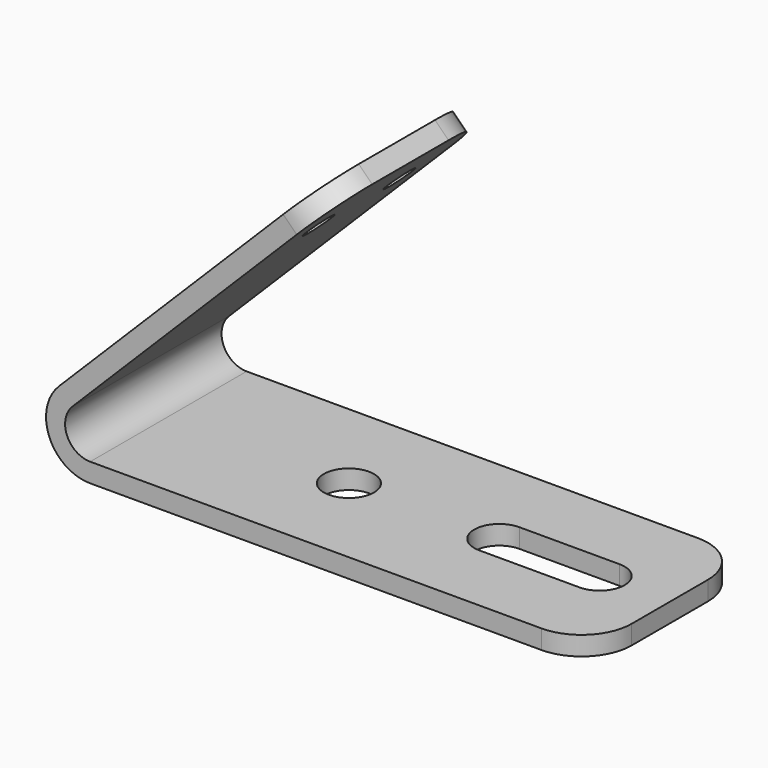
from build123d import *

# Parameters (mm, degrees)
F1_DEPTH = 247.65
F2_R     = 38.1
F3_DEPTH = 50.8
F4_R     = 63.5
F5_DEPTH = 50.8
F6_R     = 127


with BuildPart() as f1:
    # F0 (on Front) → F1 (new body, symmetric)
    with BuildSketch(Plane.XZ):
        with BuildLine():
            Line((578.707208, 736.759715), (-79.026254, 79.026254))
            ThreePointArc((-79.026254, 79.026254), (-103.252777, -42.7687), (0, -111.76))
            Line((0, -111.76), (1270, -111.76))
            Line((1270, -111.76), (1270, -63.5))
            Line((1270, -63.5), (0, -63.5))
            ThreePointArc((0, -63.5), (-58.66635, -24.300398), (-44.901281, 44.901281))
            Line((-44.901281, 44.901281), (612.832181, 702.634742))
            Line((612.832181, 702.634742), (578.707208, 736.759715))
        make_face()
    extrude(amount=F1_DEPTH, both=True)

    # F2 (on face) → F3 (cut)
    with BuildSketch(Plane(origin=(-79.026254, 0, 79.026254), x_dir=(0, -1, 0), z_dir=(-0.707107, 0, 0.707107))):
        with Locations((-133.35, 739.675582)):
            Circle(F2_R)
        with Locations((121.92, 739.675582)):
            Circle(F2_R)
    extrude(amount=-F3_DEPTH, mode=Mode.SUBTRACT)

    # F4 (on face) → F5 (cut)
    with BuildSketch(Plane(origin=(0, 0, -111.76), x_dir=(1, 0, 0), z_dir=(0, 0, -1))):
        with BuildLine():
            Line((838.2, -63.5), (1092.2, -63.5))
            ThreePointArc((1092.2, -63.5), (1155.7, 0), (1092.2, 63.5))
            Line((1092.2, 63.5), (838.2, 63.5))
            ThreePointArc((838.2, 63.5), (774.7, 0), (838.2, -63.5))
        make_face()
        with Locations((457.2, 0)):
            Circle(F4_R)
    extrude(amount=-F5_DEPTH, mode=Mode.SUBTRACT)

    # F6
    f6_edges = [f1.edges().sort_by_distance(p)[0] for p in [
        (1270, -247.65, -87.63),
        (1270, 247.65, -87.63),
        (595.769694, -247.65, 719.697229),
        (595.769694, 247.65, 719.697229),
    ]]
    fillet(f6_edges, radius=F6_R)


solid = f1.part
